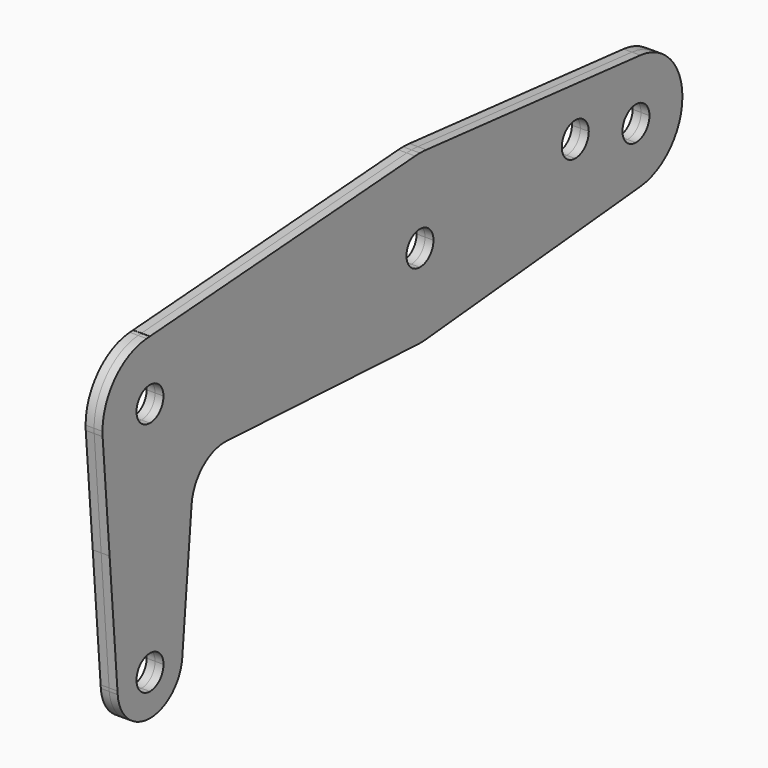
from build123d import *

# Parameters (mm, degrees)
F1_DEPTH = 1.5875


with BuildPart() as f1:
    # F0 (on Right) → F1 (new body, symmetric)
    with BuildSketch(Plane.YZ):
        with BuildLine():
            ThreePointArc((0, -3.175), (-2.2450640303, -2.2450640303), (-3.175, 0))
            Line((-3.175, 0), (-45.8724, 0))
            Line((-45.8724, 0), (-45.8724, -13.462))
            ThreePointArc((-45.8724, -13.462), (-45.6738112484, -13.4645046841), (-45.4753488371, -13.4720171431))
            Line((-45.4753488371, -13.4720171431), (-0.7941023258, -15.7279657139))
            ThreePointArc((-0.7941023258, -15.7279657139), (-0.3971775033, -15.7429906317), (0, -15.748))
            Line((0, -15.748), (0, -3.175))
        make_face()
        with BuildLine():
            ThreePointArc((51.83759, -10.8726027699), (58.8815419933, -7.3470240921), (61.722, 0))
            Line((61.722, 0), (53.975, 0))
            ThreePointArc((53.975, 0), (53.0450640303, -2.2450640303), (50.8, -3.175))
            ThreePointArc((50.8, -3.175), (48.5549359697, -2.2450640303), (47.625, 0))
            Line((47.625, 0), (36.5252, 0))
            Line((36.5252, 0), (3.175, 0))
            ThreePointArc((3.175, 0), (2.2450640303, -2.2450640303), (0, -3.175))
            Line((0, -3.175), (0, -15.748))
            ThreePointArc((0, -15.748), (0.7488772211, -15.7301839439), (1.49606, -15.6767760868))
            Line((1.49606, -15.6767760868), (51.83759, -10.8726027699))
        make_face()
        with BuildLine():
            Line((51.83759, 10.8726027699), (1.49606, 15.6767760868))
            ThreePointArc((1.49606, 15.6767760868), (0.7488772211, 15.7301839439), (0, 15.748))
            Line((0, 15.748), (0, 3.175))
            ThreePointArc((0, 3.175), (2.2450640303, 2.2450640303), (3.175, 0))
            Line((3.175, 0), (36.5252, 0))
            Line((36.5252, 0), (47.625, 0))
            ThreePointArc((47.625, 0), (48.5549359697, 2.2450640303), (50.8, 3.175))
            ThreePointArc((50.8, 3.175), (53.0450640303, 2.2450640303), (53.975, 0))
            Line((53.975, 0), (61.722, 0))
            ThreePointArc((61.722, 0), (58.8815419933, 7.3470240921), (51.83759, 10.8726027699))
        make_face()
        with BuildLine():
            ThreePointArc((39.7002, 3.175), (38.7702640303, 0.9299359697), (36.5252, 0))
            ThreePointArc((36.5252, 0), (34.2801359697, 0.9299359697), (33.3502, 3.175))
            ThreePointArc((33.3502, 3.175), (34.2801359697, 5.4200640303), (36.5252, 6.35))
            ThreePointArc((36.5252, 6.35), (38.7702640303, 5.4200640303), (39.7002, 3.175))
        make_face(mode=Mode.SUBTRACT)
        with BuildLine():
            Line((0, 3.175), (0, 15.748))
            ThreePointArc((0, 15.748), (-0.5672962051, 15.7377787192), (-1.133856, 15.7071281452))
            Line((-1.133856, 15.7071281452), (-45.8724, 12.4775710883))
            Line((-45.8724, 12.4775710883), (-45.8724, 0))
            Line((-45.8724, 0), (-3.175, 0))
            ThreePointArc((-3.175, 0), (-2.2450640303, 2.2450640303), (0, 3.175))
        make_face()
        with BuildLine():
            Line((-45.8724, 0), (-45.8724, 12.4775710883))
            Line((-45.8724, 12.4775710883), (-63.5, 11.2050813091))
            Line((-63.5, 11.2050813091), (-63.5, 11.176))
            Line((-63.5, 11.176), (-63.5, 3.175))
            ThreePointArc((-63.5, 3.175), (-61.2549359697, 2.2450640303), (-60.325, 0))
            Line((-60.325, 0), (-45.8724, 0))
        make_face()
        with BuildLine():
            Line((-45.8724, -13.462), (-45.8724, 0))
            Line((-45.8724, 0), (-60.325, 0))
            ThreePointArc((-60.325, 0), (-61.2549359697, -2.2450640303), (-63.5, -3.175))
            Line((-63.5, -3.175), (-63.5, -21.336))
            Line((-63.5, -21.336), (-53.7779584797, -21.336))
            Line((-53.7779584797, -21.336), (-53.7149674997, -20.6331408299))
            ThreePointArc((-53.7149674997, -20.6331408299), (-51.1858528743, -15.5250539021), (-45.8724, -13.462))
        make_face()
        with BuildLine():
            Line((-63.5, -21.336), (-63.5, -3.175))
            ThreePointArc((-63.5, -3.175), (-65.7450640303, -2.2450640303), (-66.675, 0))
            Line((-66.675, 0), (-74.676, 0))
            ThreePointArc((-74.676, 0), (-74.6670412581, -0.4473986372), (-74.640179395, -0.89408))
            Line((-74.640179395, -0.89408), (-72.9995674098, -21.336))
            Line((-72.9995674098, -21.336), (-63.5, -21.336))
        make_face()
        with BuildLine():
            Line((-63.5, 3.175), (-63.5, 11.176))
            ThreePointArc((-63.5, 11.176), (-63.9025973068, 11.1687461878), (-64.304672, 11.1469941676))
            ThreePointArc((-64.304672, 11.1469941676), (-71.6821754525, 7.612816881), (-74.676, 0))
            Line((-74.676, 0), (-66.675, 0))
            ThreePointArc((-66.675, 0), (-65.7450640303, 2.2450640303), (-63.5, 3.175))
        make_face()
        with BuildLine():
            Line((-53.7779584797, -21.336), (-63.5, -21.336))
            Line((-63.5, -21.336), (-63.5, -41.275))
            ThreePointArc((-63.5, -41.275), (-61.2549359697, -42.2049359697), (-60.325, -44.45))
            Line((-60.325, -44.45), (-55.8494595357, -44.45))
            Line((-55.8494595357, -44.45), (-53.7779584797, -21.336))
        make_face()
        with BuildLine():
            Line((-63.5, -41.275), (-63.5, -21.336))
            Line((-63.5, -21.336), (-72.9995674098, -21.336))
            Line((-72.9995674098, -21.336), (-71.1445016709, -44.45))
            Line((-71.1445016709, -44.45), (-66.675, -44.45))
            ThreePointArc((-66.675, -44.45), (-65.7450640303, -42.2049359697), (-63.5, -41.275))
        make_face()
        with BuildLine():
            Line((-55.9104185487, -45.1301862936), (-55.8494595357, -44.45))
            Line((-55.8494595357, -44.45), (-60.325, -44.45))
            ThreePointArc((-60.325, -44.45), (-61.2549359697, -46.6950640303), (-63.5, -47.625))
            Line((-63.5, -47.625), (-63.5, -52.07))
            ThreePointArc((-63.5, -52.07), (-58.3579488313, -50.0734962238), (-55.9104185487, -45.1301862936))
        make_face()
        with BuildLine():
            ThreePointArc((-63.5, -47.625), (-65.7450640303, -46.6950640303), (-66.675, -44.45))
            Line((-66.675, -44.45), (-71.1445016709, -44.45))
            Line((-71.1445016709, -44.45), (-71.0955768603, -45.0596))
            ThreePointArc((-71.0955768603, -45.0596), (-68.6681354471, -50.049533552), (-63.5, -52.07))
            Line((-63.5, -52.07), (-63.5, -47.625))
        make_face()
    extrude(amount=F1_DEPTH, both=True)


solid = f1.part
